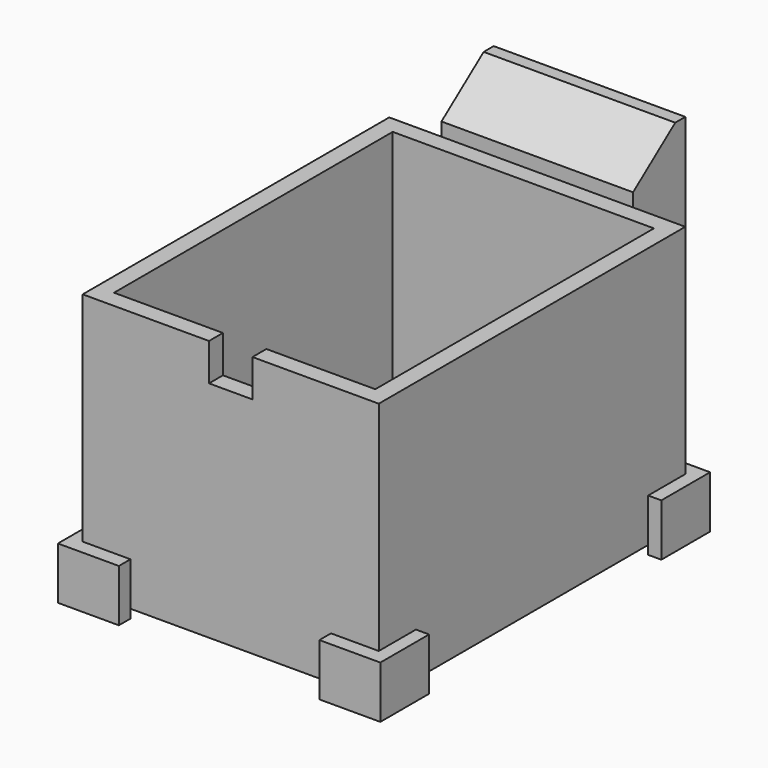
from build123d import *

# Parameters (mm, degrees)
F0_W          = 300
F0_H          = 400
F1_DEPTH      = 300
F0_W_2        = 220
F0_H_2        = 75
F2_DEPTH      = 400
F3_DEPTH      = 300
F4_DEPTH      = 20
F6_DEPTH      = 220
F7_W          = 49.88788
F7_H          = 42.84564
F8_DEPTH      = 20
F9_DEPTH      = 50
F9_DEPTH_BACK = 10


with BuildPart() as f1:
    # F0 (on Top) → F1 (new body)
    with BuildSketch(Plane.XY):
        Rectangle(F0_W, F0_H)
        Polygon((170, 166.666694), (170, 220), (115.122088, 220), (110, 220), (-110, 220), (-115.122088, 220), (-170, 220), (-170, 166.666694), (-170, -166.666694), (-170, -220), (-115.122088, -220), (115.122088, -220), (170, -220), (170, -166.666694), align=None)
        Rectangle(F0_W, F0_H, mode=Mode.SUBTRACT)
    extrude(amount=F1_DEPTH)

    # F0 (on Top) → F2 (join)
    with BuildSketch(Plane.XY):
        with Locations((0, 257.5)):
            Rectangle(F0_W_2, F0_H_2)
    extrude(amount=F2_DEPTH)

    # F0 (on Top) → F3 (cut)
    with BuildSketch(Plane.XY):
        Rectangle(F0_W, F0_H)
    extrude(amount=F3_DEPTH, mode=Mode.SUBTRACT)

    # F0 (on Top) → F4 (join)
    with BuildSketch(Plane.XY):
        Rectangle(F0_W, F0_H)
    extrude(amount=F4_DEPTH)

    # F5 (on face) → F6 (cut, through all)
    with BuildSketch(Plane(origin=(-110, 0, 0), x_dir=(0, -1, 0), z_dir=(-1, 0, 0))):
        Polygon((-295, 400), (-295, 361.107111), (-280.523896, 361.107111), (-220, 315.353394), (-220, 400), align=None)
    extrude(amount=-F6_DEPTH, mode=Mode.SUBTRACT)

    # F7 (on face) → F8 (cut, through all)
    with BuildSketch(Plane.XZ.offset(220)):
        with Locations((0, 278.57718)):
            Rectangle(F7_W, F7_H)
    extrude(amount=-F8_DEPTH, mode=Mode.SUBTRACT)

    # F0 (on Top) → F9 (join, two sides)
    with BuildSketch(Plane.XY) as f9_sk:
        Polygon((-170, 220), (-115.122088, 220), (-115.122088, 236.666694), (-185.122088, 236.666694), (-185.122088, 166.666694), (-170, 166.666694), align=None)
        Polygon((-115.122088, -236.666694), (-115.122088, -220), (-170, -220), (-170, -166.666694), (-185.122088, -166.666694), (-185.122088, -236.666694), align=None)
        Polygon((185.122088, -166.666694), (170, -166.666694), (170, -220), (115.122088, -220), (115.122088, -236.666694), (185.122088, -236.666694), align=None)
        Polygon((115.122088, 220), (170, 220), (170, 166.666694), (185.122088, 166.666694), (185.122088, 236.666694), (115.122088, 236.666694), align=None)
    extrude(amount=F9_DEPTH)
    extrude(f9_sk.sketch, amount=-F9_DEPTH_BACK)


solid = f1.part
